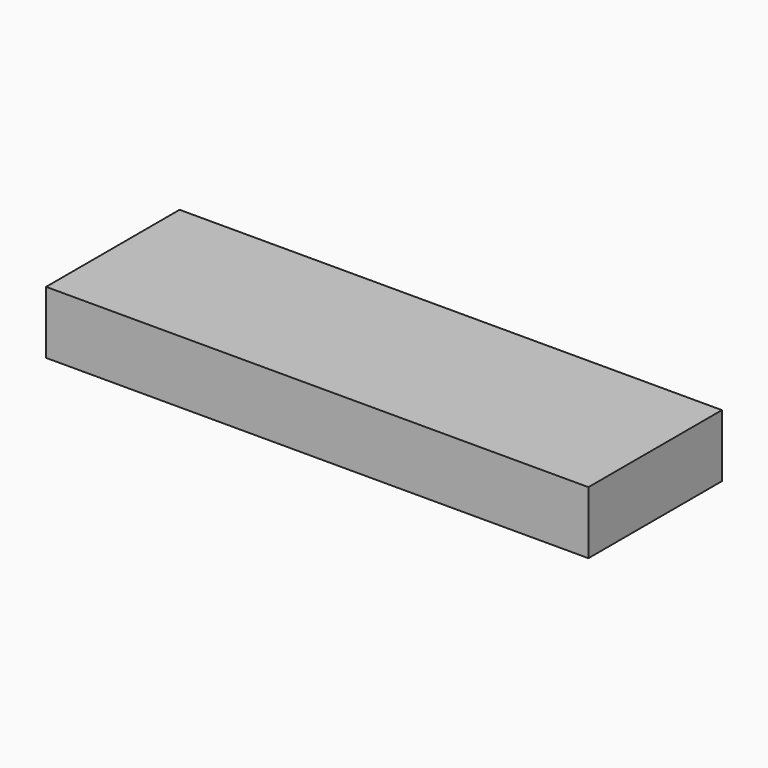
from build123d import *

# Parameters (mm, degrees)
SKETCH_W  = 39
SKETCH_H  = 12
PAD_DEPTH = 4.5


with BuildPart() as part:
    # Sketch → Pad (new body)
    with BuildSketch(Plane.XY):
        Rectangle(SKETCH_W, SKETCH_H)
    extrude(amount=PAD_DEPTH)


solid = part.part
